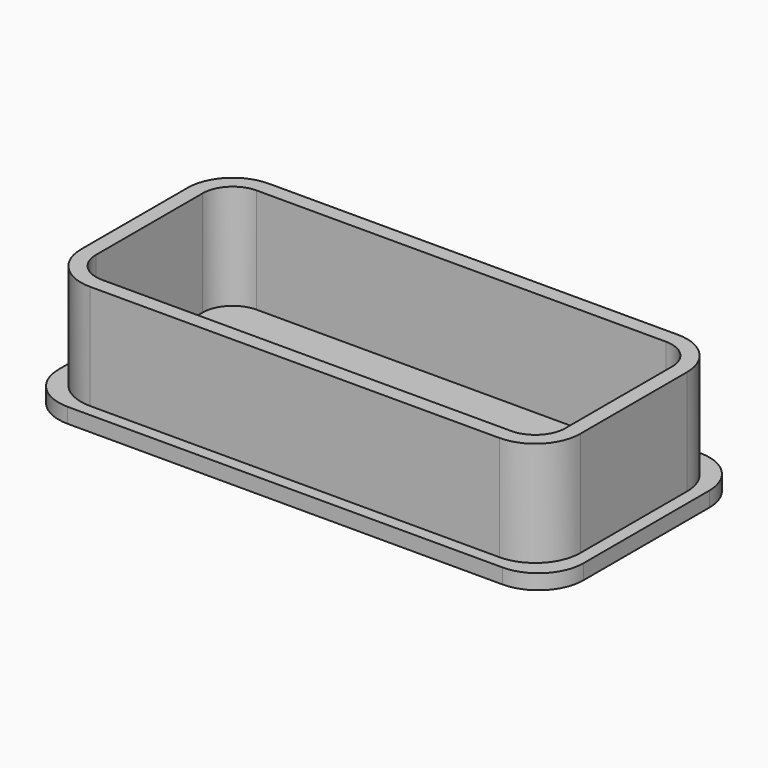
from build123d import *

# Parameters (mm, degrees)
F1_DEPTH = 8
F2_T     = -1
F4_DEPTH = 1
F6_R     = 1.5
F7_DEPTH = 8.001


with BuildPart() as f1:
    # F0 (on Top) → F1 (new body)
    with BuildSketch(Plane.XY):
        with BuildLine():
            Line((-13.65, -7.45), (13.65, -7.45))
            ThreePointArc((13.65, -7.45), (15.77132, -6.57132), (16.65, -4.45))
            Line((16.65, -4.45), (16.65, 4.45))
            ThreePointArc((16.65, 4.45), (15.77132, 6.57132), (13.65, 7.45))
            Line((13.65, 7.45), (-13.65, 7.45))
            ThreePointArc((-13.65, 7.45), (-15.77132, 6.57132), (-16.65, 4.45))
            Line((-16.65, 4.45), (-16.65, -4.45))
            ThreePointArc((-16.65, -4.45), (-15.77132, -6.57132), (-13.65, -7.45))
        make_face()
    extrude(amount=F1_DEPTH)

    # F2
    f2_openings = [f1.faces().sort_by_distance(p)[0] for p in [
        (0, 0, 8),
    ]]
    offset(amount=F2_T, openings=f2_openings)


with BuildPart() as f4:
    # F3 (on face) → F4 (new body)
    with BuildSketch(Plane(origin=(0, 0, 0), x_dir=(1, 0, 0), z_dir=(0, 0, -1))):
        with BuildLine():
            Line((-14.5, -8.25), (14.5, -8.25))
            ThreePointArc((14.5, -8.25), (16.62132, -7.37132), (17.5, -5.25))
            Line((17.5, -5.25), (17.5, 5.25))
            ThreePointArc((17.5, 5.25), (16.62132, 7.37132), (14.5, 8.25))
            Line((14.5, 8.25), (-14.5, 8.25))
            ThreePointArc((-14.5, 8.25), (-16.62132, 7.37132), (-17.5, 5.25))
            Line((-17.5, 5.25), (-17.5, -5.25))
            ThreePointArc((-17.5, -5.25), (-16.62132, -7.37132), (-14.5, -8.25))
        make_face()
        with BuildLine():
            Line((-13.65, 7.45), (13.65, 7.45))
            ThreePointArc((13.65, 7.45), (15.77132, 6.57132), (16.65, 4.45))
            Line((16.65, 4.45), (16.65, -4.45))
            ThreePointArc((16.65, -4.45), (15.77132, -6.57132), (13.65, -7.45))
            Line((13.65, -7.45), (-13.65, -7.45))
            ThreePointArc((-13.65, -7.45), (-15.77132, -6.57132), (-16.65, -4.45))
            Line((-16.65, -4.45), (-16.65, 4.45))
            ThreePointArc((-16.65, 4.45), (-15.77132, 6.57132), (-13.65, 7.45))
        make_face(mode=Mode.SUBTRACT)
    extrude(amount=-F4_DEPTH)


with BuildPart() as f1_1:
    add(f1.part)

    # F5: union F4
    add(f4.part)

    # F6 (on face) → F7 (cut, through all)
    with BuildSketch(Plane(origin=(0, 0, 0), x_dir=(1, 0, 0), z_dir=(0, 0, -1))):
        with Locations((-2.5, 0.25)):
            Circle(F6_R)
        with Locations((2.5, 0.25)):
            Circle(F6_R)
    extrude(amount=-F7_DEPTH, mode=Mode.SUBTRACT)


solid = f1_1.part
